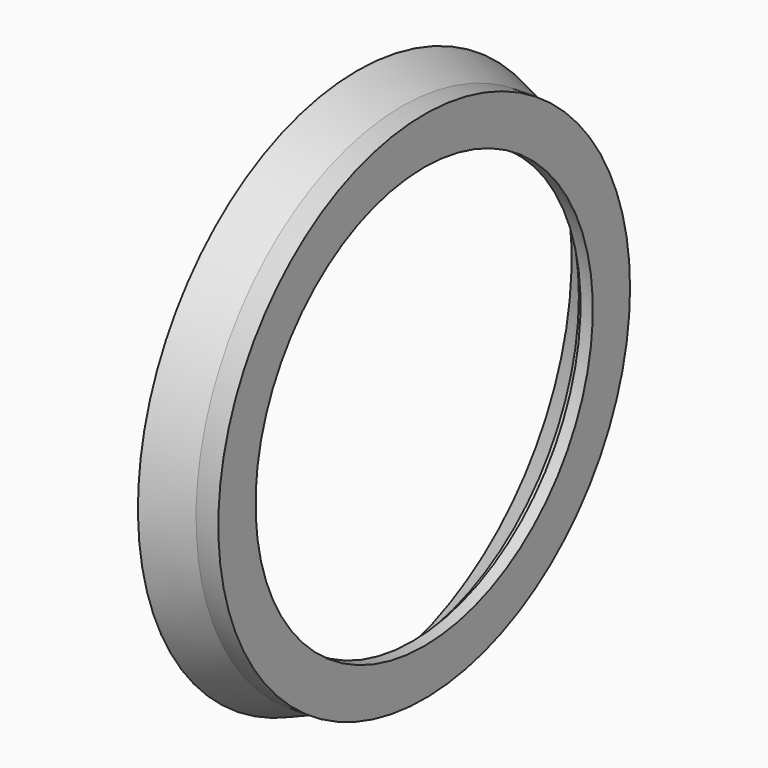
from build123d import *

# Parameters (mm, degrees)
F2_R     = 146.304
F3_DEPTH = 12.7


with BuildPart() as f1:
    # F0 (on Front) → F1 (revolve)
    with BuildSketch(Plane.XZ):
        Polygon((0, 155.829), (0, 152.4), (25.4, 142.875), (25.4, 146.304), align=None)
    revolve(axis=Axis((14.760356, 0, 0), (1, 0, 0)))

    # F2 (on face) → F3 (join)
    with BuildSketch(Plane.YZ.offset(25.4)):
        Circle(F2_R)
    extrude(amount=F3_DEPTH)

    # F4 (on Front) → F5 (revolve, cut)
    with BuildSketch(Plane.XZ):
        Polygon((31.113731, 125.831813), (25.4, 125.831813), (25.4, 0), (38.1, 0), (38.1, 119.858369), (31.113731, 119.858369), align=None)
    revolve(axis=Axis((39.318715, 0, 0), (1, 0, 0)), mode=Mode.SUBTRACT)


solid = f1.part
